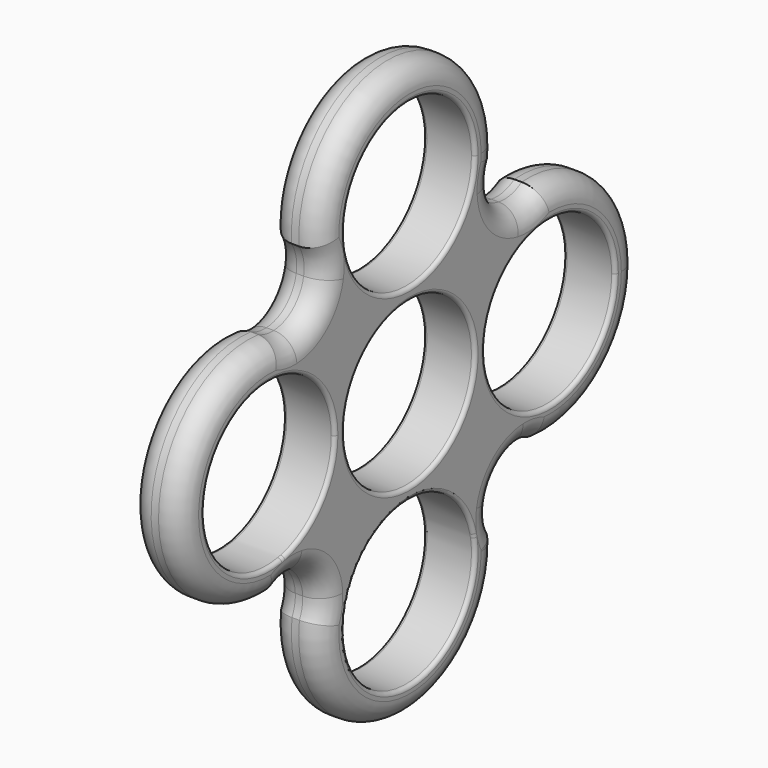
from build123d import *

# Parameters (mm, degrees)
F0_R     = 11
F1_DEPTH = 7
F2_R     = 3
F3_R     = 11
F4_DEPTH = 7
F5_R     = 0.5


with BuildPart() as f1:
    # F0 (on Right) → F1 (new body)
    with BuildSketch(Plane.YZ):
        with BuildLine():
            ThreePointArc((-8.6423686218, 0), (-11.5669596547, 8.8985672036), (-19.2003017254, 14.3271784273))
            ThreePointArc((-19.2003017254, 14.3271784273), (-20.5526558036, 14.4403276349), (-21.8329071962, 14.8904616903))
            ThreePointArc((-21.8329071962, 14.8904616903), (-38.6375046448, 0.381962892), (-22.5933550658, -14.9632740588))
            ThreePointArc((-22.5933550658, -14.9632740588), (-20.7373967468, -14.1987958366), (-18.7303245084, -14.1729256905))
            ThreePointArc((-18.7303245084, -14.1729256905), (-11.4218804625, -8.698256673), (-8.6423686218, 0))
        make_face()
        with Locations((-23.6423686218, 0)):
            Circle(F0_R, mode=Mode.SUBTRACT)
        with BuildLine():
            ThreePointArc((14.8904616903, 21.8329071962), (14.9725903797, 22.7359816608), (15, 23.6423686218))
            ThreePointArc((15, 23.6423686218), (-0.5248281231, 38.6331843248), (-14.9632740588, 22.5933550658))
            ThreePointArc((-14.9632740588, 22.5933550658), (-14.1987958366, 20.7373967468), (-14.1729256905, 18.7303245084))
            ThreePointArc((-14.1729256905, 18.7303245084), (0.2473219012, 8.6444076978), (14.3271784273, 19.2003017254))
            ThreePointArc((14.3271784273, 19.2003017254), (14.4403276349, 20.5526558036), (14.8904616903, 21.8329071962))
        make_face()
        with Locations((0, 23.6423686218)):
            Circle(F0_R, mode=Mode.SUBTRACT)
        with BuildLine():
            ThreePointArc((14.3271784273, 19.2003017254), (0.2473219012, 8.6444076978), (-14.1729256905, 18.7303245084))
            ThreePointArc((-14.1729256905, 18.7303245084), (-15.9134496053, 15.6459766043), (-19.2003017254, 14.3271784273))
            ThreePointArc((-19.2003017254, 14.3271784273), (-11.5669596547, 8.8985672036), (-8.6423686218, 0))
            ThreePointArc((-8.6423686218, 0), (-11.4218804625, -8.698256673), (-18.7303245084, -14.1729256905))
            ThreePointArc((-18.7303245084, -14.1729256905), (-15.6459766043, -15.9134496053), (-14.3271784273, -19.2003017254))
            ThreePointArc((-14.3271784273, -19.2003017254), (-0.2473219012, -8.6444076978), (14.1729256905, -18.7303245084))
            ThreePointArc((14.1729256905, -18.7303245084), (15.9134496053, -15.6459766043), (19.2003017254, -14.3271784273))
            ThreePointArc((19.2003017254, -14.3271784273), (8.6444076978, -0.2473219012), (18.7303245084, 14.1729256905))
            ThreePointArc((18.7303245084, 14.1729256905), (15.6459766043, 15.9134496053), (14.3271784273, 19.2003017254))
        make_face()
        with BuildLine():
            ThreePointArc((22.5933550658, 14.9632740588), (20.7373967468, 14.1987958366), (18.7303245084, 14.1729256905))
            ThreePointArc((18.7303245084, 14.1729256905), (8.6444076978, -0.2473219012), (19.2003017254, -14.3271784273))
            ThreePointArc((19.2003017254, -14.3271784273), (20.5526558036, -14.4403276349), (21.8329071962, -14.8904616903))
            ThreePointArc((21.8329071962, -14.8904616903), (33.5886764447, -11.2281325559), (38.6423686218, 0))
            ThreePointArc((38.6423686218, 0), (33.8713665361, 10.9712169639), (22.5933550658, 14.9632740588))
        make_face()
        with Locations((23.6423686218, 0)):
            Circle(F0_R, mode=Mode.SUBTRACT)
        with BuildLine():
            ThreePointArc((14.9632740588, -22.5933550658), (14.1987958366, -20.7373967468), (14.1729256905, -18.7303245084))
            ThreePointArc((14.1729256905, -18.7303245084), (-0.2473219012, -8.6444076978), (-14.3271784273, -19.2003017254))
            ThreePointArc((-14.3271784273, -19.2003017254), (-14.4403276349, -20.5526558036), (-14.8904616903, -21.8329071962))
            ThreePointArc((-14.8904616903, -21.8329071962), (-0.906386961, -38.6149590014), (15, -23.6423686218))
            ThreePointArc((15, -23.6423686218), (14.990815703, -23.1175404986), (14.9632740588, -22.5933550658))
        make_face()
        with Locations((0, -23.6423686218)):
            Circle(F0_R, mode=Mode.SUBTRACT)
    extrude(amount=F1_DEPTH)

    # F2
    f2_edges = [f1.edges().sort_by_distance(p)[0] for p in [
        (7, 0.381963, 38.637505),
        (7, -15.446047, 16.109202),
        (7, -38.637505, 0.381963),
        (7, -16.109202, -15.446047),
        (7, -0.381963, -38.637505),
        (7, 16.109202, 15.446047),
        (7, 38.637505, -0.381963),
        (7, 15.446047, -16.109202),
        (0, -38.637505, 0.381963),
        (0, -16.109202, -15.446047),
        (0, -0.381963, -38.637505),
        (0, 15.446047, -16.109202),
        (0, 38.637505, -0.381963),
        (0, 16.109202, 15.446047),
        (0, 0.381963, 38.637505),
        (0, -15.446047, 16.109202),
    ]]
    fillet(f2_edges, radius=F2_R)

    # F3 (on Right) → F4 (cut)
    with BuildSketch(Plane.YZ):
        Circle(F3_R)
    extrude(amount=F4_DEPTH, mode=Mode.SUBTRACT)

    # F5
    f5_edges = [f1.edges().sort_by_distance(p)[0] for p in [
        (0, 12.642369, 0),
        (0, -11, 23.642369),
        (0, -11, 0),
        (0, -34.642369, 0),
        (0, -11, -23.642369),
        (7, 12.642369, 0),
        (7, -11, 23.642369),
        (7, -11, 0),
        (7, -11, -23.642369),
        (7, -34.642369, 0),
    ]]
    fillet(f5_edges, radius=F5_R)


solid = f1.part
